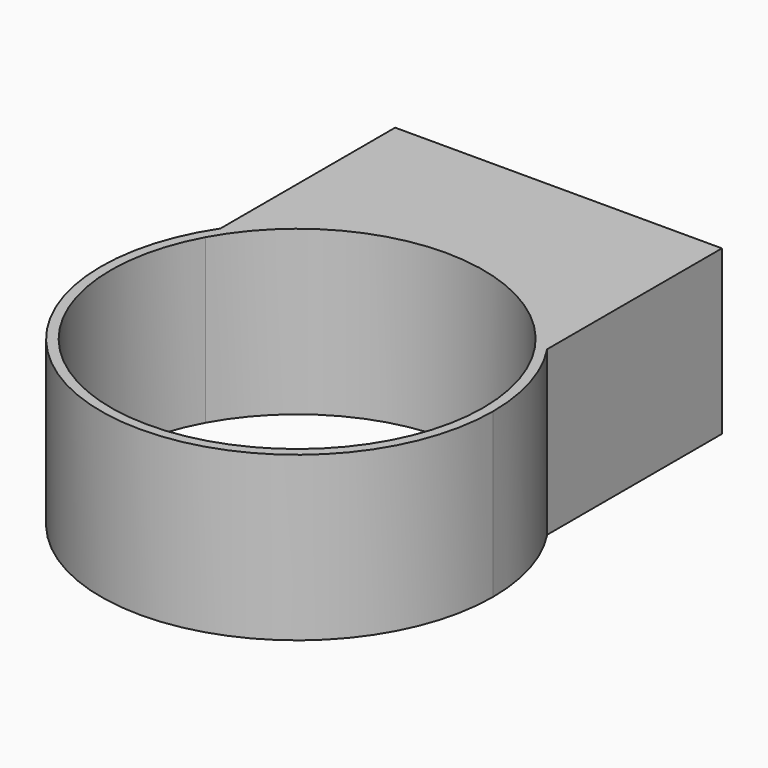
from build123d import *

# Parameters (mm, degrees)
F1_DEPTH = 10


with BuildPart() as f1:
    # F0 (on Top) → F1 (new body)
    with BuildSketch(Plane.XY):
        with BuildLine():
            ThreePointArc((10.0000002235, 5.473572465), (11.0444556803, 2.8248891529), (11.4, 0))
            ThreePointArc((11.4, 0), (-2.8248896039, -11.0444555649), (-9.9999997765, 5.4735732817))
            Line((-9.9999997765, 5.4735732817), (-9.9999997765, 6.6332499177))
            ThreePointArc((-9.9999997765, 6.6332499177), (-3.4641018087, -11.4891252347), (12, 0))
            ThreePointArc((12, 0), (11.4891253514, 3.4641014216), (10.0000002235, 6.6332492437))
            Line((10.0000002235, 6.6332492437), (10.0000002235, 5.473572465))
        make_face()
        with BuildLine():
            ThreePointArc((-9.9999997765, 5.4735732817), (4.655e-07, 11.4), (10.0000002235, 5.473572465))
            Line((10.0000002235, 5.473572465), (10.0000002235, 6.6332492437))
            ThreePointArc((10.0000002235, 6.6332492437), (4.044e-07, 12), (-9.9999997765, 6.6332499177))
            Line((-9.9999997765, 6.6332499177), (-9.9999997765, 5.4735732817))
        make_face()
        with BuildLine():
            ThreePointArc((-9.9999997765, 6.6332499177), (4.044e-07, 12), (10.0000002235, 6.6332492437))
            Line((10.0000002235, 6.6332492437), (10.0000002235, 20))
            Line((10.0000002235, 20), (-9.9999997765, 20))
            Line((-9.9999997765, 20), (-9.9999997765, 6.6332499177))
        make_face()
    extrude(amount=F1_DEPTH)


solid = f1.part
